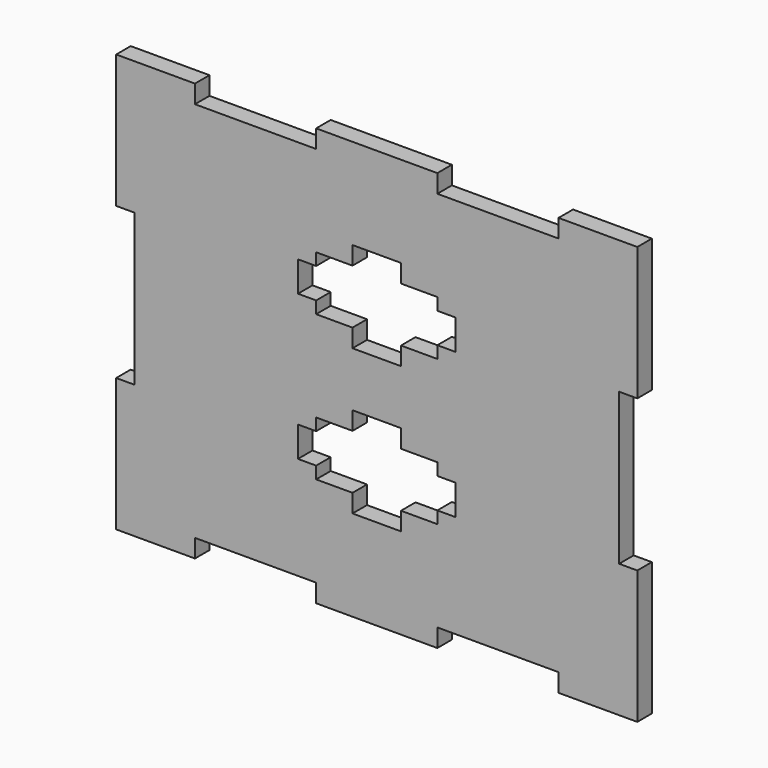
from build123d import *

# Parameters (mm, degrees)
F1_DEPTH = 3


with BuildPart() as f1:
    # F0 (on Front) → F1 (new body)
    with BuildSketch(Plane.XZ):
        Polygon((10, 34.5), (0, 34.5), (-10, 34.5), (-10, 31.5), (-30, 31.5), (-30, 34.5), (-43, 34.5), (-43, 12.5), (-40, 12.5), (-40, 0), (-40, -12.5), (-43, -12.5), (-43, -34.5), (-30, -34.5), (-30, -31.5), (-10, -31.5), (-10, -34.5), (0, -34.5), (10, -34.5), (10, -31.5), (30, -31.5), (30, -34.5), (43, -34.5), (43, -12.5), (40, -12.5), (40, 0), (40, 12.5), (43, 12.5), (43, 34.5), (30, 34.5), (30, 31.5), (10, 31.5), align=None)
        Polygon((-13, -14.5), (-13, -9.5), (-10, -9.5), (-10, -7.5), (-4, -7.5), (-4, -4.5), (0, -4.5), (4, -4.5), (4, -7.5), (10, -7.5), (10, -9.5), (13, -9.5), (13, -14.5), (10, -14.5), (10, -16.5), (4, -16.5), (4, -19.5), (0, -19.5), (-4, -19.5), (-4, -16.5), (-10, -16.5), (-10, -14.5), align=None, mode=Mode.SUBTRACT)
        Polygon((4, 16.5), (10, 16.5), (10, 14.5), (13, 14.5), (13, 9.5), (10, 9.5), (10, 7.5), (4, 7.5), (4, 4.5), (0, 4.5), (-4, 4.5), (-4, 7.5), (-10, 7.5), (-10, 9.5), (-13, 9.5), (-13, 14.5), (-10, 14.5), (-10, 16.5), (-4, 16.5), (-4, 19.5), (0, 19.5), (4, 19.5), align=None, mode=Mode.SUBTRACT)
    extrude(amount=F1_DEPTH)


solid = f1.part
